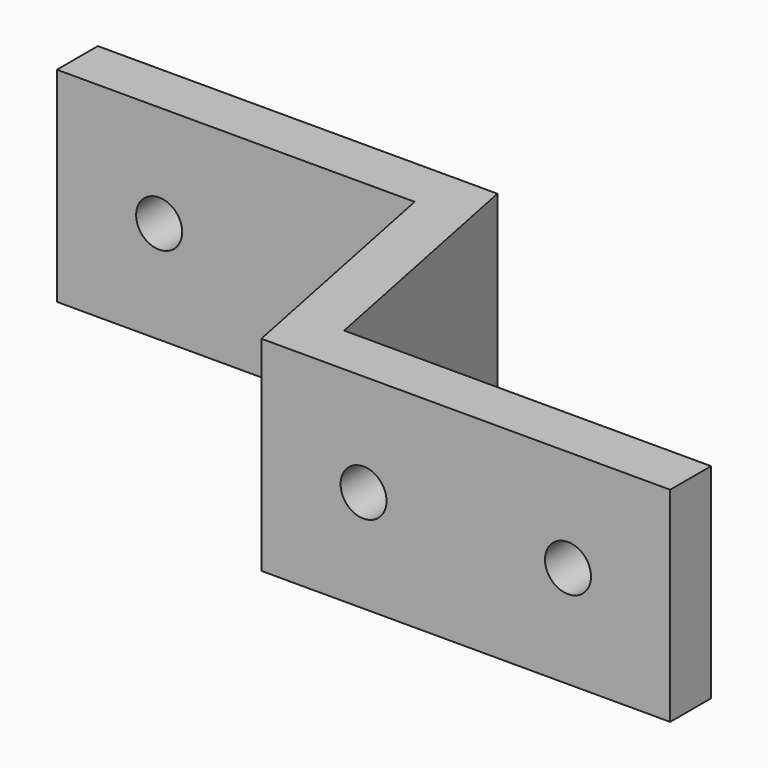
from build123d import *

# Parameters (mm, degrees)
F1_DEPTH = 10
F2_R     = 2.25
F3_DEPTH = 5
F4_R     = 2.25
F5_DEPTH = 5


with BuildPart() as f1:
    # F0 (on Top) → F1 (new body, symmetric)
    with BuildSketch(Plane.XY):
        Polygon((4.0990195136, -25), (-0.9009804864, 0), (-40, 0), (-40, -5), (-5, -5), (0, -30), (40, -30), (40, -25), align=None)
    extrude(amount=F1_DEPTH, both=True)

    # F2 (on face) → F3 (cut, through all)
    with BuildSketch(Plane.XZ.offset(5)):
        with Locations((-30, 0)):
            Circle(F2_R)
        with Locations((-10, 0)):
            Circle(F2_R)
    extrude(amount=-F3_DEPTH, mode=Mode.SUBTRACT)

    # F4 (on face) → F5 (cut, through all)
    with BuildSketch(Plane.XZ.offset(30)):
        with Locations((10, 0)):
            Circle(F4_R)
        with Locations((30, 0)):
            Circle(F4_R)
    extrude(amount=-F5_DEPTH, mode=Mode.SUBTRACT)


solid = f1.part
